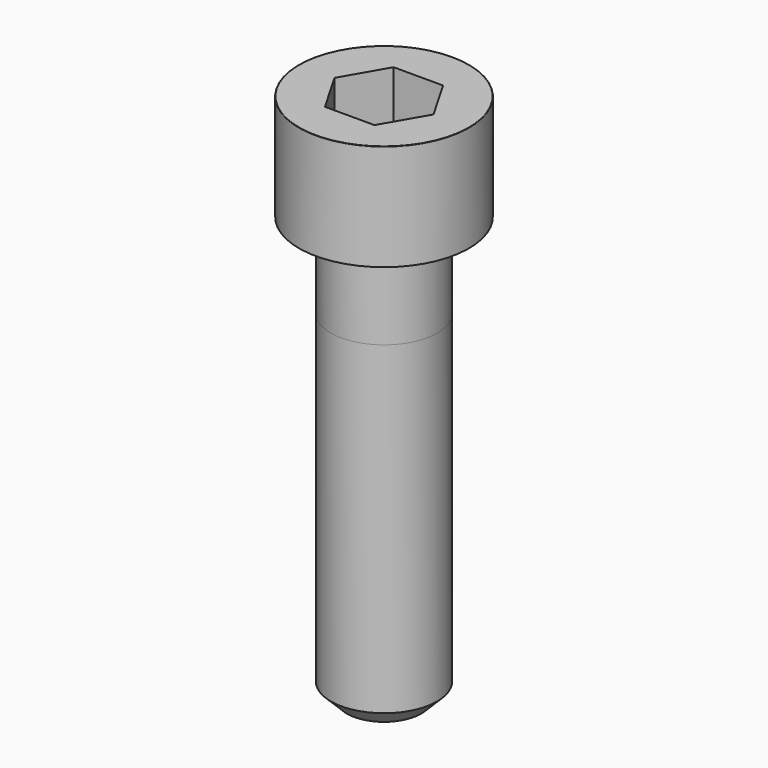
from build123d import *

# Parameters (mm, degrees)
POCKET_DEPTH = 8.07


with BuildPart() as part:
    # Sketch → Revolve (revolve)
    with BuildSketch(Plane.YZ):
        with BuildLine():
            Line((4.999, 0), (8, 0))
            Line((8, 0), (8, 9.97229))
            ThreePointArc((8, 9.97229), (7.991884, 9.991884), (7.97229, 10))
            Line((7.97229, 10), (0, 10))
            Line((0, -40), (0, 10))
            Line((3.5, -40), (0, -40))
            Line((5, -38.5), (3.5, -40))
            Line((5, -8), (5, -38.5))
            Line((4.999, 0), (5, -8))
        make_face()
    revolve(axis=Axis((0, 0, 0), (0, 0, 1)))

    # Sketch001 → Pocket (cut)
    with BuildSketch(Plane.XY.offset(10)):
        Polygon((4.659217, 0), (2.329608, 4.035), (-2.329608, 4.035), (-4.659217, 0), (-2.329608, -4.035), (2.329608, -4.035), align=None)
    extrude(amount=-POCKET_DEPTH, mode=Mode.SUBTRACT)


solid = part.part
